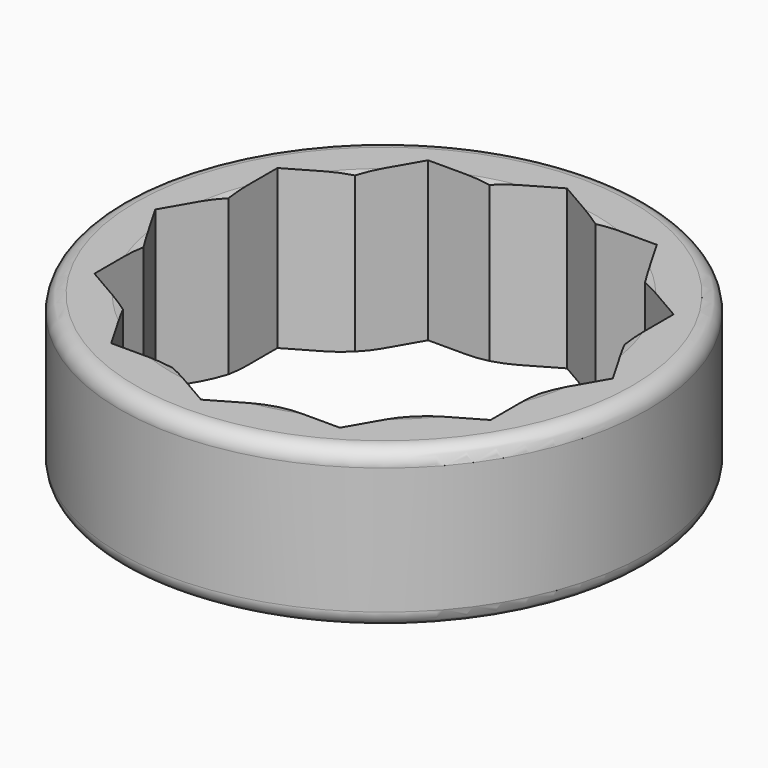
from build123d import *

# Parameters (mm, degrees)
F0_R     = 5
F0_R_2   = 3.7175865722
F1_DEPTH = 3
F2_R     = 0.3
F4_DEPTH = 12.5
F6_DEPTH = 12.5


with BuildPart() as f1:
    # F0 (on Top) → F1 (new body)
    with BuildSketch(Plane.XY):
        Circle(F0_R)
        Circle(F0_R_2, mode=Mode.SUBTRACT)
    extrude(amount=F1_DEPTH)

    # F2
    f2_edges = [f1.edges().sort_by_distance(p)[0] for p in [
        (-5, 0, 3),
        (-3.717587, 0, 3),
        (-5, 0, 0),
        (-3.717587, 0, 0),
    ]]
    fillet(f2_edges, radius=F2_R)

    # F3 (on Top) → F4 (cut, symmetric)
    with BuildSketch(Plane.XY):
        Polygon((3.75, -2.1650635095), (3.75, 2.1650635095), (0, 4.3301270189), (-3.75, 2.1650635095), (-3.75, -2.1650635095), (0, -4.3301270189), align=None)
    extrude(amount=F4_DEPTH, both=True, mode=Mode.SUBTRACT)

    # F5 (on Top) → F6 (cut, symmetric)
    with BuildSketch(Plane.XY):
        Polygon((4.3301270189, 0), (2.1650635095, 3.75), (-2.1650635095, 3.75), (-4.3301270189, 0), (-2.1650635095, -3.75), (2.1650635095, -3.75), align=None)
    extrude(amount=F6_DEPTH, both=True, mode=Mode.SUBTRACT)


solid = f1.part
